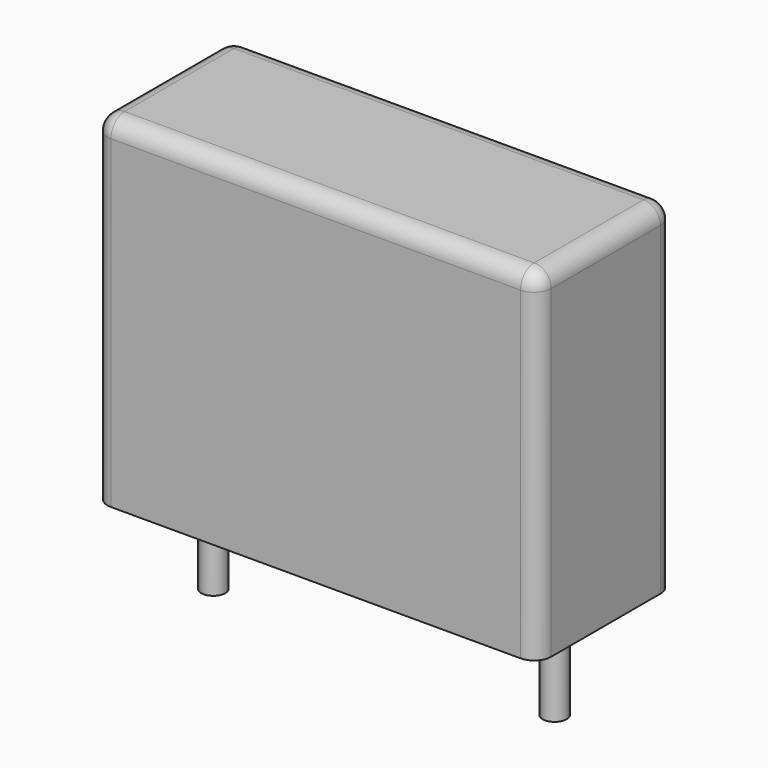
from build123d import *

# Parameters (mm, degrees)
SKETCH_W     = 13
SKETCH_H     = 5
PAD_DEPTH    = 10
FILLET_R     = 0.5
SKETCH001_R  = 0.35
PAD001_DEPTH = 3.2


with BuildPart() as fillet_body:
    # Sketch → Pad (new body)
    with BuildSketch(Plane.XY.offset(0.1)):
        with Locations((5, 0)):
            Rectangle(SKETCH_W, SKETCH_H)
    extrude(amount=PAD_DEPTH)

    # Fillet
    fillet_edges = [fillet_body.edges().sort_by_distance(p)[0] for p in [
        (-1.5, 0, 10.1),
        (-1.5, -2.5, 5.1),
        (5, -2.5, 10.1),
        (11.5, -2.5, 5.1),
        (11.5, 0, 10.1),
        (11.5, 2.5, 5.1),
        (5, 2.5, 10.1),
        (-1.5, 2.5, 5.1),
    ]]
    fillet(fillet_edges, radius=FILLET_R)


with BuildPart() as pad001:
    # Sketch001 → Pad001 (new body)
    with BuildSketch(Plane.XY.offset(0.5)):
        Circle(SKETCH001_R)
        with Locations((10, 0)):
            Circle(SKETCH001_R)
    extrude(amount=-PAD001_DEPTH)


solid = Compound([fillet_body.part, pad001.part])
